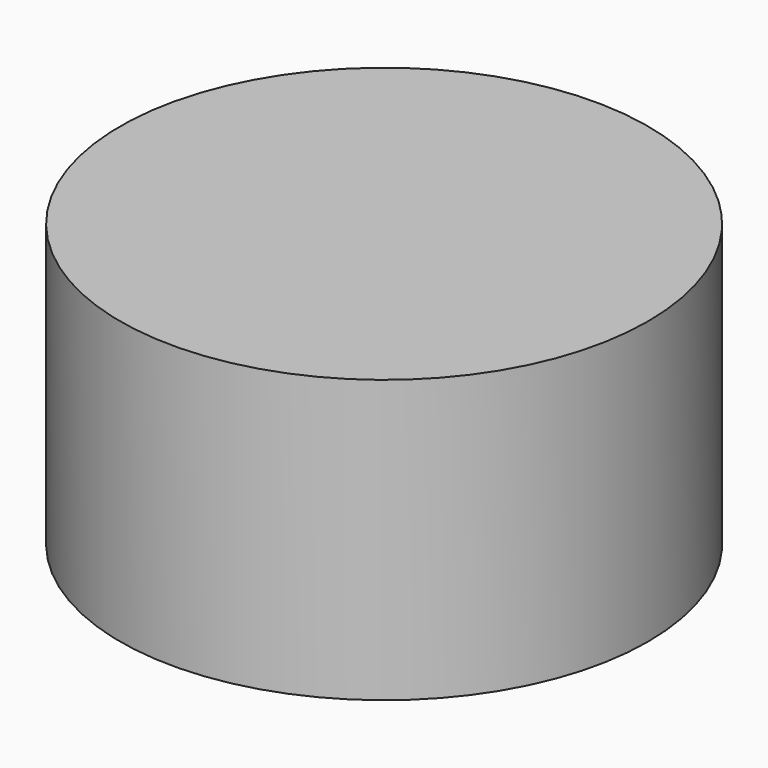
from build123d import *

# Parameters (mm, degrees)
PRISM005_DEPTH    = 1.1
CYLINDER034_R     = 2.34
CYLINDER034_DEPTH = 2.5


with BuildPart() as prism005:
    # Prism005 → Prism005 (new body)
    with BuildSketch(Plane.XY.offset(-23)):
        Polygon((1, 0), (0.5, 0.866025), (-0.5, 0.866025), (-1, 0), (-0.5, -0.866025), (0.5, -0.866025), align=None)
    extrude(amount=PRISM005_DEPTH)


with BuildPart() as cut025:
    # Cylinder034 → Cylinder034 (new body)
    with BuildSketch(Plane.XY.offset(-22.5)):
        Circle(CYLINDER034_R)
    extrude(amount=CYLINDER034_DEPTH)

    # Cut025: cut Prism005
    add(prism005.part, mode=Mode.SUBTRACT)


solid = cut025.part
